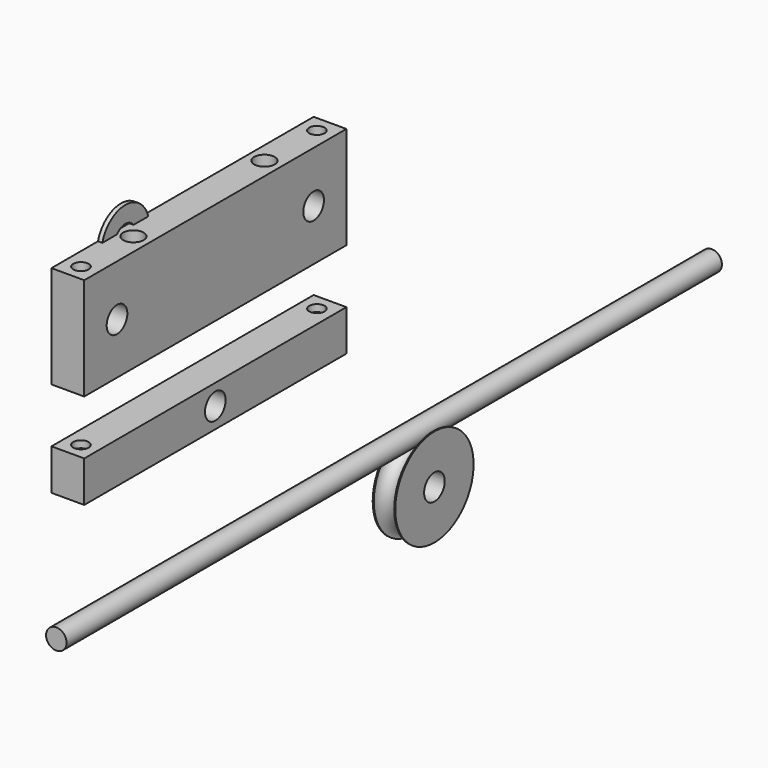
from build123d import *

# Parameters (mm, degrees)
F3_R      = 11
F3_R_2    = 4
F4_DEPTH  = 7
F5_R      = 3.175
F6_DEPTH  = 127
F7_W      = 101.6
F7_H      = 12.7
F7_R      = 4
F8_DEPTH  = 10.16
F7_H_2    = 31.75
F11_R     = 9.25
F11_R_2   = 4.0894
F12_DEPTH = 1.35
F9_R      = 2.38125
F13_DEPTH = 50.8
F9_R_2    = 3.175
F14_DEPTH = 25.4


with BuildPart() as f1:
    # F0 (on Top) → F1 (revolve)
    with BuildSketch(Plane.XY):
        with BuildLine():
            ThreePointArc((71.4225, 0), (74.5975, 3.175), (77.7725, 0))
            Line((77.7725, 0), (78.0975, 0))
            Line((78.0975, 0), (78.0975, 3.175))
            Line((78.0975, 3.175), (78.0975, 4.175))
            Line((78.0975, 4.175), (74.5975, 4.175))
            Line((74.5975, 4.175), (71.0975, 4.175))
            Line((71.0975, 4.175), (71.0975, 3.175))
            Line((71.0975, 3.175), (71.0975, 0))
            Line((71.0975, 0), (71.4225, 0))
        make_face()
        Polygon((74.5975, 4.175), (78.0975, 4.175), (78.0975, 15.175), (71.0975, 15.175), (71.0975, 4.175), align=None)
    revolve(axis=Axis((74.5975, 15.175, 0), (-1, 0, 0)))

    # F0 (on Top) → F2 (revolve, cut)
    with BuildSketch(Plane.XY):
        Polygon((74.5975, 4.175), (78.0975, 4.175), (78.0975, 15.175), (71.0975, 15.175), (71.0975, 4.175), align=None)
    revolve(axis=Axis((74.5975, 15.175, 0), (-1, 0, 0)), mode=Mode.SUBTRACT)

    # F3 (on face) → F4 (join)
    with BuildSketch(Plane.YZ.offset(78.0975)):
        with Locations((15.175, 0)):
            Circle(F3_R)
        with Locations((15.175, 0)):
            Circle(F3_R_2, mode=Mode.SUBTRACT)
    extrude(amount=-F4_DEPTH)


with BuildPart() as f6:
    # F5 (on Front) → F6 (new body, symmetric)
    with BuildSketch(Plane.XZ):
        with Locations((74.5975, 15.175)):
            Circle(F5_R)
    extrude(amount=F6_DEPTH, both=True)


with BuildPart() as f8:
    # F7 (on Right) → F8 (new body)
    with BuildSketch(Plane.YZ):
        with Locations((15.175, 0)):
            Rectangle(F7_W, F7_H)
        with Locations((15.175, 0)):
            Circle(F7_R, mode=Mode.SUBTRACT)
    extrude(amount=F8_DEPTH)


with BuildPart() as f8b:
    # F7 (on Right) → F8, piece 2 (new body)
    with BuildSketch(Plane.YZ):
        with Locations((15.175, 39.116)):
            Rectangle(F7_W, F7_H_2)
        with Locations((-22.925, 39.116)):
            Circle(F7_R, mode=Mode.SUBTRACT)
        with Locations((53.275, 39.116)):
            Circle(F7_R, mode=Mode.SUBTRACT)
    extrude(amount=F8_DEPTH)


with BuildPart() as f12:
    # F11 (on Right) → F12 (new body)
    with BuildSketch(Plane.YZ):
        with Locations((-8.7098954245, 52.4768084288)):
            Circle(F11_R)
        with Locations((-8.7098954245, 52.4768084288)):
            Circle(F11_R_2, mode=Mode.SUBTRACT)
    extrude(amount=F12_DEPTH)


with BuildPart() as f13_tool:
    # F9 (on face) → F13 (new body)
    with BuildSketch(Plane.XY.offset(54.991)):
        with Locations((5.08, 60.895)):
            Circle(F9_R)
        with Locations((5.08, -30.545)):
            Circle(F9_R)
    extrude(amount=-F13_DEPTH)


with BuildPart() as f8_1:
    add(f8.part)

    # F13: cut by f13_tool
    add(f13_tool.part, mode=Mode.SUBTRACT)


with BuildPart() as f8b_1:
    add(f8b.part)

    # F13: cut by f13_tool
    add(f13_tool.part, mode=Mode.SUBTRACT)

    # F9 (on face) → F14 (cut)
    with BuildSketch(Plane.XY.offset(54.991)):
        with Locations((5.08, 40.575)):
            Circle(F9_R_2)
        with Locations((5.08, -10.225)):
            Circle(F9_R_2)
    extrude(amount=-F14_DEPTH, mode=Mode.SUBTRACT)


solid = Compound([f1.part, f6.part, f12.part, f8_1.part, f8b_1.part])
